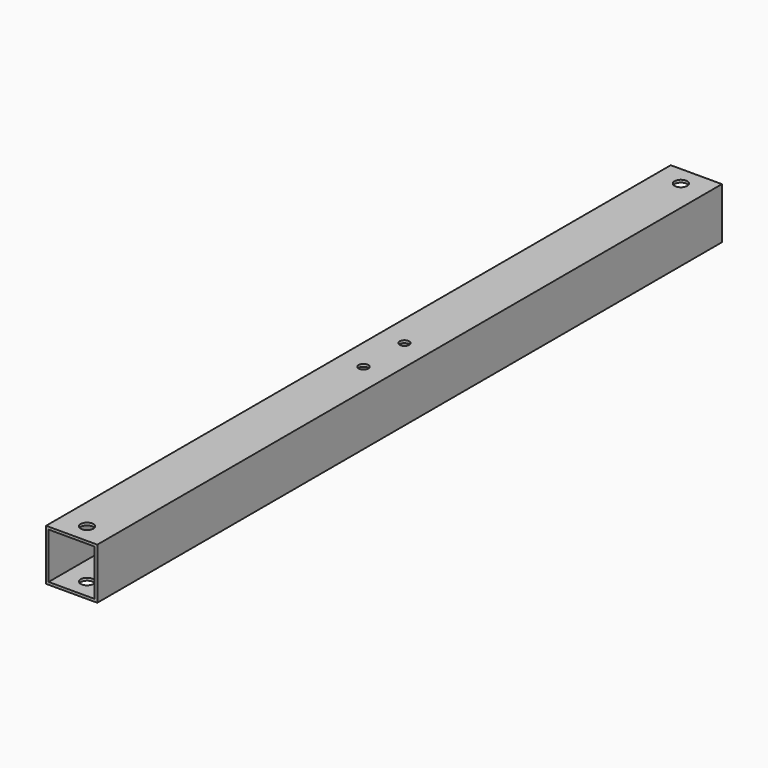
from build123d import *

# Parameters (mm, degrees)
F0_W     = 25.4
F0_H     = 25.4
F0_W_2   = 22.86
F0_H_2   = 22.86
F1_DEPTH = 387.35
F2_R     = 3.175
F2_R_2   = 2.413
F3_DEPTH = 25.401


with BuildPart() as f1:
    # F0 (on Front) → F1 (new body)
    with BuildSketch(Plane.XZ):
        Rectangle(F0_W, F0_H)
        Rectangle(F0_W_2, F0_H_2, mode=Mode.SUBTRACT)
    extrude(amount=-F1_DEPTH)

    # F2 (on face) → F3 (cut, through all)
    with BuildSketch(Plane.XY.offset(12.7)):
        with Locations((0, 9.525)):
            Circle(F2_R)
        with Locations((0, 377.825)):
            Circle(F2_R)
        with Locations((0, 180.975)):
            Circle(F2_R_2)
        with Locations((0, 206.375)):
            Circle(F2_R_2)
    extrude(amount=-F3_DEPTH, mode=Mode.SUBTRACT)


solid = f1.part
